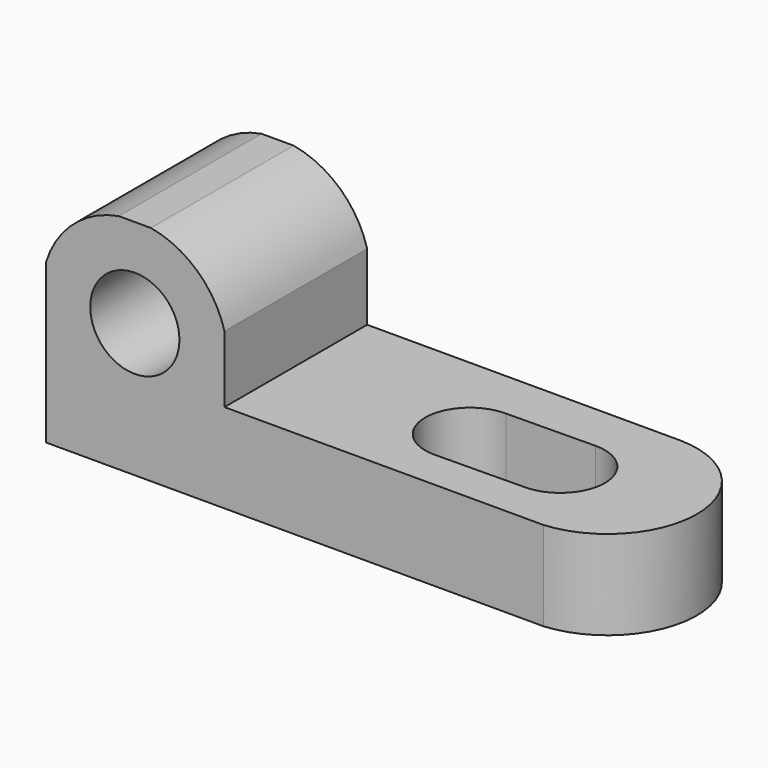
from build123d import *

# Parameters (mm, degrees)
F1_DEPTH = 25.4
F4_DEPTH = 25.4
F5_R     = 6.35
F6_DEPTH = 25.4
F8_DEPTH = 25.4


with BuildPart() as f1:
    # F0 (on Front) → F1 (new body)
    with BuildSketch(Plane.XZ):
        with BuildLine():
            Line((-48.741896, 36.444197), (-53.308046, 36.444197))
            ThreePointArc((-53.308046, 36.444197), (-59.769484, 33.341808), (-63.66557, 27.325537))
            Line((-63.66557, 27.325537), (-63.66557, 4.694197))
            Line((-63.66557, 4.694197), (18.88443, 4.694197))
            Line((18.88443, 4.694197), (18.88443, 17.394197))
            Line((18.88443, 17.394197), (-38.26557, 17.394197))
            Line((-38.26557, 17.394197), (-38.26557, 26.919197))
            ThreePointArc((-38.26557, 26.919197), (-42.1227, 33.200663), (-48.741896, 36.444197))
        make_face()
    extrude(amount=F1_DEPTH)

    # F3 (on face) → F4 (cut)
    with BuildSketch(Plane.XY.offset(17.394197)):
        with BuildLine():
            ThreePointArc((6.368123, 0), (18.857612, -12.305201), (7.198642, -25.4))
            Line((7.198642, -25.4), (18.88443, -25.4))
            Line((18.88443, -25.4), (18.88443, 0))
            Line((18.88443, 0), (6.368123, 0))
        make_face()
    extrude(amount=-F4_DEPTH, mode=Mode.SUBTRACT)

    # F5 (on face) → F6 (cut)
    with BuildSketch(Plane.XZ.offset(25.4)):
        with Locations((-51.028371, 23.744197)):
            Circle(F5_R)
    extrude(amount=-F6_DEPTH, mode=Mode.SUBTRACT)

    # F7 (on face) → F8 (cut)
    with BuildSketch(Plane.XY.offset(17.394197)):
        with BuildLine():
            ThreePointArc((-0.085432, -19.59818), (4.352802, -17.71039), (6.18443, -13.248686))
            ThreePointArc((6.18443, -13.248686), (4.295666, -8.729851), (-0.247025, -6.899208))
            ThreePointArc((-0.247025, -6.899208), (-6.515056, -13.329482), (-0.085432, -19.59818))
        make_face()
        with BuildLine():
            ThreePointArc((-0.085432, -19.59818), (-6.515056, -13.329482), (-0.247025, -6.899208))
            Line((-0.247025, -6.899208), (-12.835866, -7.060705))
            ThreePointArc((-12.835866, -7.060705), (-8.39968, -8.949577), (-6.569161, -13.410158))
            ThreePointArc((-6.569161, -13.410158), (-8.372724, -17.843262), (-12.758896, -19.758136))
            Line((-12.758896, -19.758136), (-0.085432, -19.59818))
        make_face()
        with BuildLine():
            ThreePointArc((-6.569161, -13.410158), (-8.39968, -8.949577), (-12.835866, -7.060705))
            ThreePointArc((-12.835866, -7.060705), (-19.269025, -13.36851), (-12.919161, -19.760158))
            Line((-12.919161, -19.760158), (-12.758896, -19.758136))
            ThreePointArc((-12.758896, -19.758136), (-8.372724, -17.843262), (-6.569161, -13.410158))
        make_face()
        with BuildLine():
            ThreePointArc((-12.919161, -19.760158), (-12.839022, -19.759653), (-12.758896, -19.758136))
            Line((-12.758896, -19.758136), (-12.919161, -19.760158))
        make_face()
    extrude(amount=-F8_DEPTH, mode=Mode.SUBTRACT)


solid = f1.part
